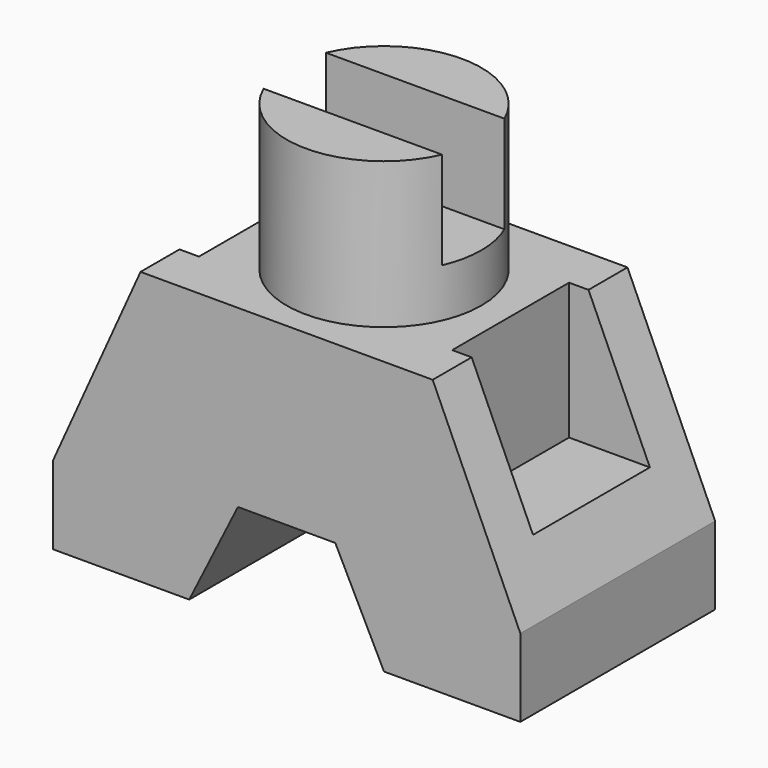
from build123d import *

# Parameters (mm, degrees)
F1_DEPTH = 25
F2_W     = 2
F2_H     = 15
F2_W_2   = 7
F3_DEPTH = 14
F4_W     = 7
F4_H     = 15
F4_W_2   = 2
F5_DEPTH = 14
F6_R     = 10
F7_DEPTH = 15
F9_DEPTH = 10


with BuildPart() as f1:
    # F0 (on Front) → F1 (new body)
    with BuildSketch(Plane.XZ):
        Polygon((-21.3017152275, -22.6773469236), (-21.3017152275, -30.6773469236), (-7.3017152275, -30.6773469236), (-2.3017152275, -20.6773469236), (7.6982847725, -20.6773469236), (12.6982847725, -30.6773469236), (26.6982847725, -30.6773469236), (26.6982847725, -22.6773469236), (17.6982847725, -2.6773469236), (-12.3017152275, -2.6773469236), align=None)
    extrude(amount=F1_DEPTH)

    # F2 (on face) → F3 (cut)
    with BuildSketch(Plane.XY.offset(-2.6773469236)):
        with Locations((-11.3017152275, -12.5)):
            Rectangle(F2_W, F2_H)
        with Locations((-15.8017152275, -12.5)):
            Rectangle(F2_W_2, F2_H)
    extrude(amount=-F3_DEPTH, mode=Mode.SUBTRACT)

    # F4 (on face) → F5 (cut)
    with BuildSketch(Plane.XY.offset(-2.6773469236)):
        with Locations((21.1982847725, -12.5)):
            Rectangle(F4_W, F4_H)
        with Locations((16.6982847725, -12.5)):
            Rectangle(F4_W_2, F4_H)
    extrude(amount=-F5_DEPTH, mode=Mode.SUBTRACT)

    # F6 (on face) → F7 (join)
    with BuildSketch(Plane.XY.offset(-2.6773469236)):
        with Locations((2.6982847725, -12.5)):
            Circle(F6_R)
    extrude(amount=F7_DEPTH)

    # F8 (on face) → F9 (cut)
    with BuildSketch(Plane.XY.offset(12.3226530764)):
        with BuildLine():
            Line((11.8634361624, -8.5), (-6.4668666175, -8.5))
            ThreePointArc((-6.4668666175, -8.5), (-7.3017152275, -12.5), (-6.4668666175, -16.5))
            Line((-6.4668666175, -16.5), (11.8634361624, -16.5))
            ThreePointArc((11.8634361624, -16.5), (12.4873479018, -14.5430964369), (12.6982847725, -12.5))
            ThreePointArc((12.6982847725, -12.5), (12.4873479018, -10.4569035631), (11.8634361624, -8.5))
        make_face()
    extrude(amount=-F9_DEPTH, mode=Mode.SUBTRACT)


solid = f1.part
